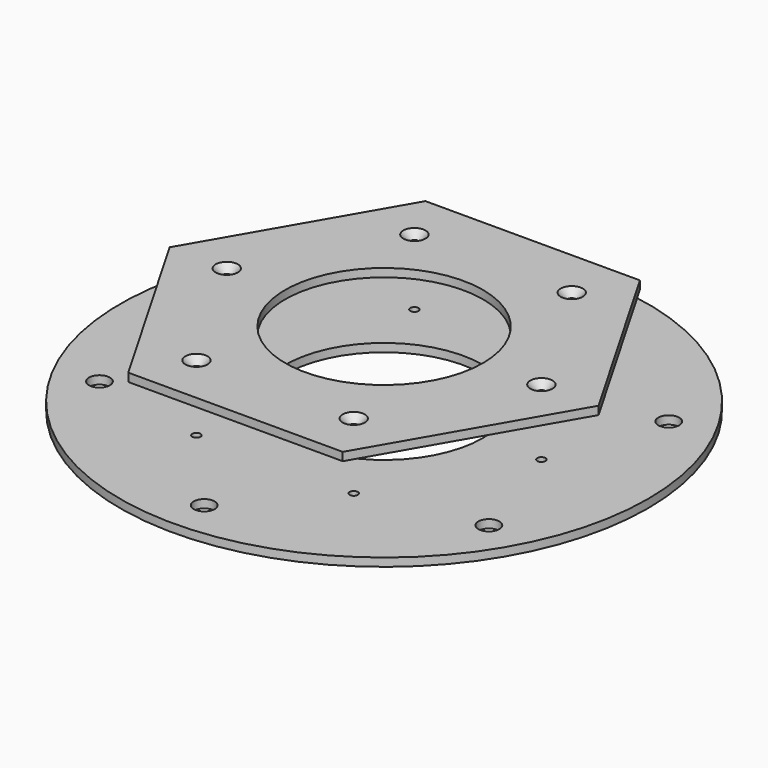
from build123d import *

# Parameters (mm, degrees)
F0_R             = 80
F0_R_2           = 30
F1_DEPTH         = 2.5
F3_R             = 30
F4_DEPTH         = 2.5
F6_D             = 2.5
F6_CSINK_D       = 6.72
F6_CSINK_ANGLE   = 90
F6_2_D           = 2.5
F6_2_CSINK_D     = 6.72
F6_2_CSINK_ANGLE = 90
F8_D             = 6.35


with BuildPart() as f1:
    # F0 (on Top) → F1 (new body)
    with BuildSketch(Plane.XY):
        Circle(F0_R)
        Polygon((-32.5, 56.291651246), (32.5, 56.291651246), (65, 0), (32.5, -56.291651246), (-32.5, -56.291651246), (-65, 0), align=None, mode=Mode.SUBTRACT)
        Polygon((65, 0), (32.5, 56.291651246), (-32.5, 56.291651246), (-65, 0), (-32.5, -56.291651246), (32.5, -56.291651246), align=None)
        Circle(F0_R_2, mode=Mode.SUBTRACT)
    extrude(amount=F1_DEPTH)

    # F6 (through all)
    with Locations(Plane.XY.offset(22.5)):
        with Locations((-23.8397459622, 41.291651246), (23.8397459622, 41.291651246), (47.6794919243, 0), (23.8397459622, -41.291651246), (-23.8397459622, -41.291651246), (-47.6794919243, 0)):
            CounterSinkHole(F6_D / 2, F6_CSINK_D / 2, counter_sink_angle=F6_CSINK_ANGLE)

    # F8 (through all)
    with Locations(Plane.XY.offset(2.5)):
        with Locations((0, 68.145825623), (59.0160161514, 34.0729128115), (59.0160161514, -34.0729128115), (0, -68.145825623), (-59.0160161514, -34.0729128115), (-59.0160161514, 34.0729128115)):
            Hole(F8_D / 2)


with BuildPart() as f4:
    # F3 (on offset) → F4 (new body)
    with BuildSketch(Plane.XY.offset(20)):
        Polygon((65, 0), (32.5, 56.291651246), (-32.5, 56.291651246), (-65, 0), (-32.5, -56.291651246), (32.5, -56.291651246), align=None)
        Circle(F3_R, mode=Mode.SUBTRACT)
    extrude(amount=F4_DEPTH)

    # F6#2 (through all)
    with Locations(Plane.XY.offset(22.5)):
        with Locations((-23.8397459622, 41.291651246), (23.8397459622, 41.291651246), (47.6794919243, 0), (23.8397459622, -41.291651246), (-23.8397459622, -41.291651246), (-47.6794919243, 0)):
            CounterSinkHole(F6_2_D / 2, F6_2_CSINK_D / 2, counter_sink_angle=F6_2_CSINK_ANGLE)


solid = Compound([f1.part, f4.part])
